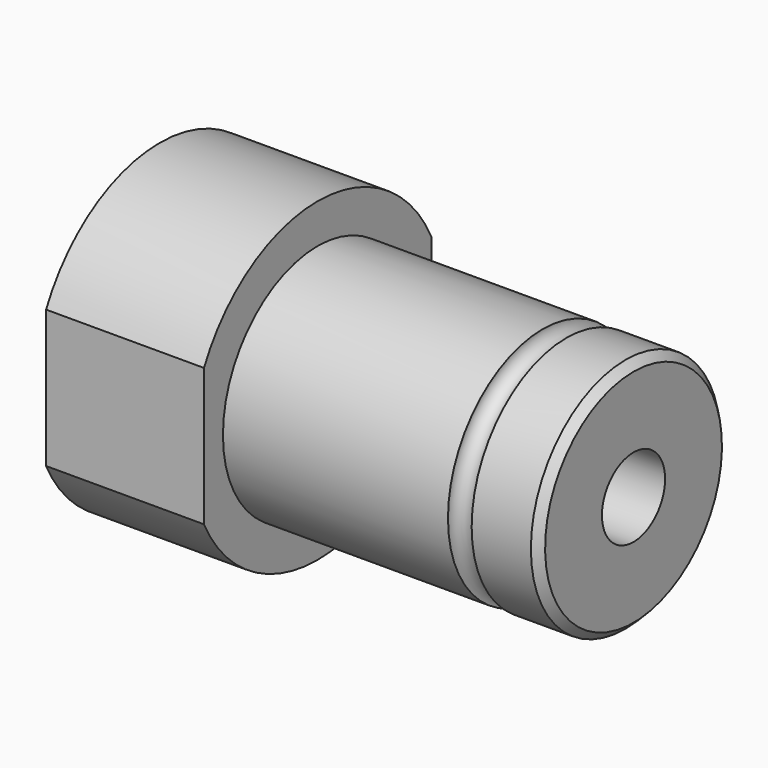
from build123d import *

# Parameters (mm, degrees)
F2_R      = 5
F3_DEPTH  = 60.001
F4_SIZE   = 1
F7_R      = 1.5
F10_DEPTH = 60.001


with BuildPart() as f1:
    # F0 (on Front) → F1 (revolve)
    with BuildSketch(Plane.XZ):
        Polygon((0, 20), (0, 0), (60, 0), (60, 15), (20, 15), (20, 20), align=None)
    revolve(axis=Axis((13.371463, 0, 0), (1, 0, 0)))

    # F2 (on face) → F3 (cut, through all)
    with BuildSketch(Plane(origin=(0, 0, 0), x_dir=(0, -1, 0), z_dir=(-1, 0, 0))):
        Circle(F2_R)
    extrude(amount=-F3_DEPTH, mode=Mode.SUBTRACT)

    # F4
    f4_edges = [f1.edges().sort_by_distance(p)[0] for p in [
        (60, 0, -15),
    ]]
    chamfer(f4_edges, length=F4_SIZE)

    # F8: sweep along a path in F6
    with BuildLine(Plane.YZ.offset(50)) as f8_path:
        CenterArc((0, 0), 15, 0, 360)
    # F7 (on Front) → F8 (sweep, cut)
    with BuildSketch(Plane.XZ):
        with Locations((50, 15.000039)):
            Circle(F7_R)
    sweep(path=f8_path.line, mode=Mode.SUBTRACT)

    # F9 (on face) → F10 (cut, through all)
    with BuildSketch(Plane(origin=(0, 0, 0), x_dir=(0, -1, 0), z_dir=(-1, 0, 0))):
        with BuildLine():
            Line((-18, -8.717798), (-18, 8.717798))
            ThreePointArc((-18, 8.717798), (-20, 0), (-18, -8.717798))
        make_face()
        with BuildLine():
            ThreePointArc((20, 0), (19.493589, 4.472136), (18, 8.717798))
            Line((18, 8.717798), (18, -8.717798))
            ThreePointArc((18, -8.717798), (19.493589, -4.472136), (20, 0))
        make_face()
    extrude(amount=-F10_DEPTH, mode=Mode.SUBTRACT)


solid = f1.part
